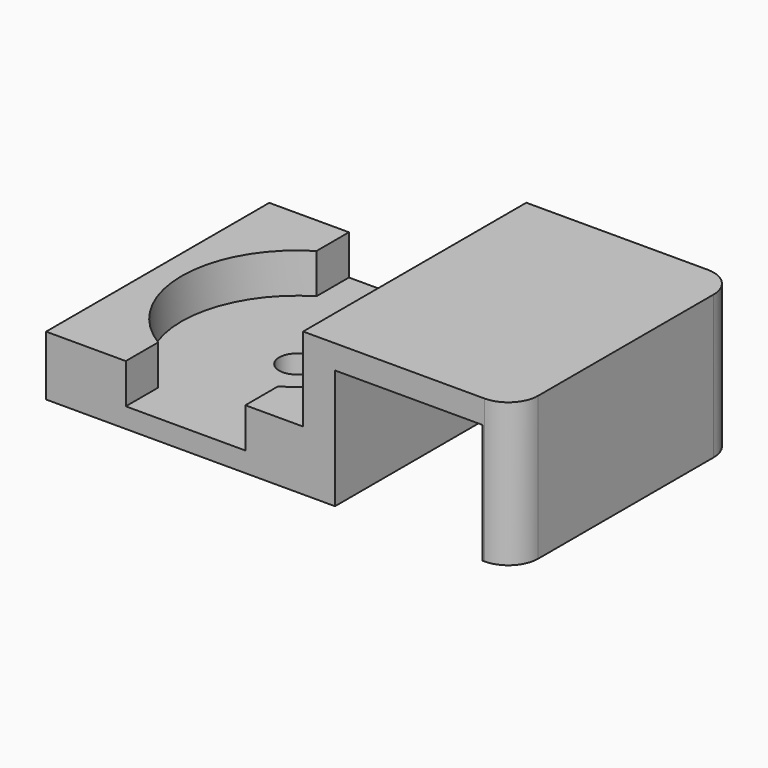
from build123d import *

# Parameters (mm, degrees)
PAD_DEPTH       = 7
SKETCH006_W     = 14
SKETCH006_H     = 14
PAD002_DEPTH    = 3
POCKET004_DEPTH = 2
SKETCH008_R     = 0.9
POCKET005_DEPTH = 1.001
FILLET_R        = 1.5


with BuildPart() as clamp_unit:
    # Sketch → Pad (new body, symmetric)
    with BuildSketch(Plane.XZ):
        Polygon((-3.7, 7.2), (5.3, 7.2), (5.3, 0), (3.7, 0), (3.7, 6), (-3.7, 6), (-3.7, 0), (-5.3, 0), (-5.3, 7.2), align=None)
    extrude(amount=PAD_DEPTH, both=True)


with BuildPart() as wire_holder_single:
    # Sketch006 → Pad002 (new body)
    with BuildSketch(Plane.XY):
        Rectangle(SKETCH006_W, SKETCH006_H)
    extrude(amount=PAD002_DEPTH)

    # Sketch007 → Pocket004 (cut)
    with BuildSketch(Plane.XY.offset(3)):
        with BuildLine():
            Line((-3, 7), (-3, 4.963869))
            ThreePointArc((-3, 4.963869), (-5.8, 0), (-3, -4.963869))
            Line((-3, -7), (-3, -4.963869))
            Line((3, -7), (-3, -7))
            Line((3, -4.963869), (3, -7))
            ThreePointArc((3, -4.963869), (5.8, 0), (3, 4.963869))
            Line((3, 7), (3, 4.963869))
            Line((-3, 7), (3, 7))
        make_face()
    extrude(amount=-POCKET004_DEPTH, mode=Mode.SUBTRACT)

    # Sketch008 → Pocket005 (cut, through all)
    with BuildSketch(Plane.XY.offset(1)):
        Circle(SKETCH008_R)
    extrude(amount=-POCKET005_DEPTH, mode=Mode.SUBTRACT)


with BuildPart() as wire_holder_single_1:
    # Clone placement: moved
    add(wire_holder_single.part.moved(Location((-11.2, 0, 0))))

    # Fusion: union clamp-unit
    add(clamp_unit.part)

    # Fillet
    fillet_edges = [wire_holder_single_1.edges().sort_by_distance(p)[0] for p in [
        (-8.2, 7, 2),
        (-8.2, 5.981935, 3),
        (5.3, 7, 3.6),
        (5.3, -7, 3.6),
    ]]
    fillet(fillet_edges, radius=FILLET_R)


solid = wire_holder_single_1.part
